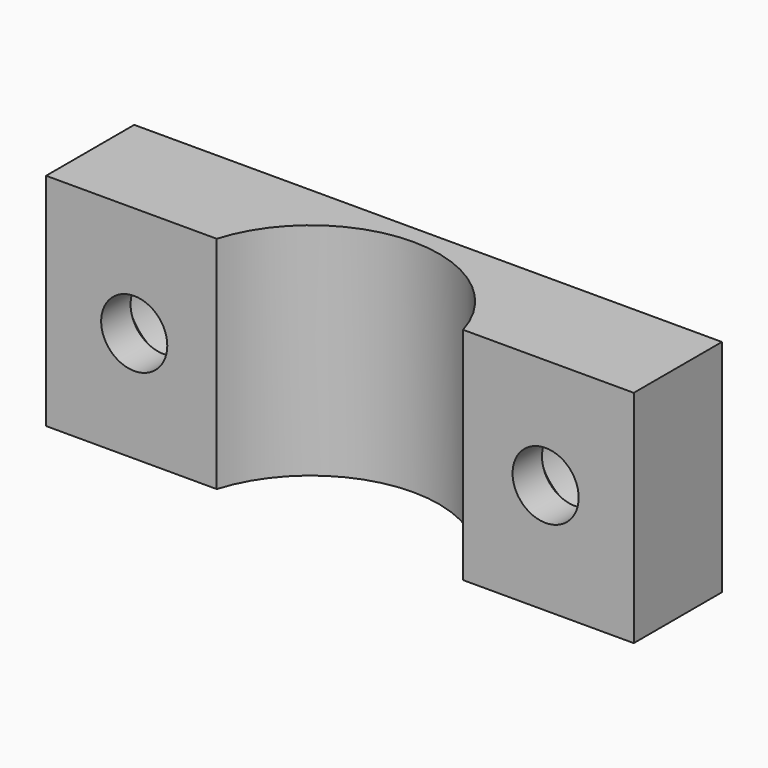
from build123d import *

# Parameters (mm, degrees)
PAD007_DEPTH = 15


with BuildPart() as part:
    # Sketch007 → Pad007 (new body, symmetric)
    with BuildSketch(Plane.XY):
        with BuildLine():
            Line((-16.77051, -15), (-40, -15))
            Line((-40, -15), (-40, 0))
            Line((-40, 0), (40, 0))
            Line((40, 0), (40, -15))
            Line((40, -15), (16.77051, -15))
            ThreePointArc((16.77051, -15), (0, -2.5), (-16.77051, -15))
        make_face()
    extrude(amount=PAD007_DEPTH, both=True)

    # Sketch017 → Groove (revolve, cut)
    with BuildSketch(Plane(origin=(28, 0, 0), x_dir=(1, 0, 0), z_dir=(0, 0, 1))):
        Polygon((0, 0), (7.5, 0), (7.5, -7), (4.5, -10), (4.5, -27), (0, -27), align=None)
    revolve(axis=Axis((28, 0, 0), (0, 1, 0)), mode=Mode.SUBTRACT)

    # Sketch018 → Groove001 (revolve, cut)
    with BuildSketch(Plane(origin=(-28, 0, 0), x_dir=(1, 0, 0), z_dir=(0, 0, 1))):
        Polygon((0, 0), (7.5, 0), (7.5, -7), (4.5, -10), (4.5, -30), (0, -30), align=None)
    revolve(axis=Axis((-28, 0, 0), (0, 1, 0)), mode=Mode.SUBTRACT)


with BuildPart() as part_1:
    # Body007 placement: moved
    add(part.part.moved(Location((0, -30, 0))))


solid = part_1.part
